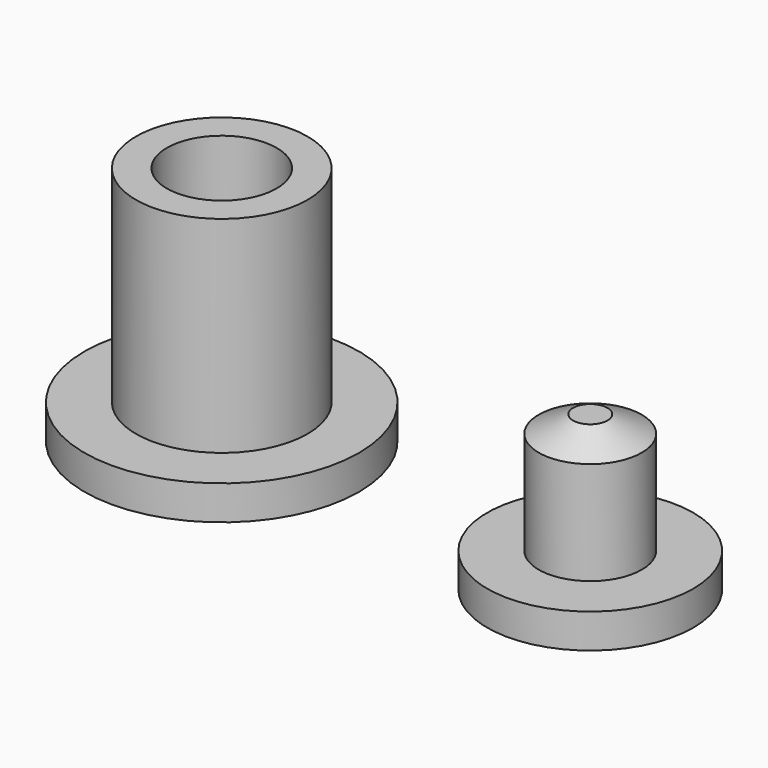
from build123d import *

# Parameters (mm, degrees)
CYLINDER003_R     = 1.5
CYLINDER003_DEPTH = 3
CYLINDER004_R     = 3
CYLINDER004_DEPTH = 1
CYLINDER001_R     = 4
CYLINDER001_DEPTH = 1
CYLINDER002_R     = 1.6
CYLINDER002_DEPTH = 5
CYLINDER_R        = 2.5
CYLINDER_DEPTH    = 6


with BuildPart() as cone:
    # Cone → Cone (revolve)
    with BuildSketch(Plane(origin=(11.115233, -0.477186, 3), x_dir=(1, 0, 0), z_dir=(0, -1, 0))):
        Polygon((0, 0), (1.5, 0), (0.5, 0.5), (0, 0.5), align=None)
    revolve(axis=Axis((11.115233, -0.477186, 3), (0, 0, 1)))


with BuildPart() as cylinder003:
    # Cylinder003 → Cylinder003 (new body)
    with BuildSketch(Plane(origin=(11.115233, -0.477186, 0), x_dir=(1, 0, 0), z_dir=(0, 0, 1))):
        Circle(CYLINDER003_R)
    extrude(amount=CYLINDER003_DEPTH)


with BuildPart() as fusion001:
    # Cylinder004 → Cylinder004 (new body)
    with BuildSketch(Plane(origin=(11.115233, -0.477186, -1), x_dir=(1, 0, 0), z_dir=(0, 0, 1))):
        Circle(CYLINDER004_R)
    extrude(amount=CYLINDER004_DEPTH)

    # Fusion: union Cylinder003
    add(cylinder003.part)

    # Fusion001: union Cone
    add(cone.part)


with BuildPart() as cylinder001:
    # Cylinder001 → Cylinder001 (new body)
    with BuildSketch(Plane.XY.offset(-1)):
        Circle(CYLINDER001_R)
    extrude(amount=CYLINDER001_DEPTH)


with BuildPart() as cylinder002:
    # Cylinder002 → Cylinder002 (new body)
    with BuildSketch(Plane.XY.offset(1)):
        Circle(CYLINDER002_R)
    extrude(amount=CYLINDER002_DEPTH)


with BuildPart() as fusion002:
    # Cylinder → Cylinder (new body)
    with BuildSketch(Plane.XY):
        Circle(CYLINDER_R)
    extrude(amount=CYLINDER_DEPTH)

    # Cut: cut Cylinder002
    add(cylinder002.part, mode=Mode.SUBTRACT)

    # Fusion002: union Cylinder001
    add(cylinder001.part)


solid = Compound([fusion001.part, fusion002.part])
